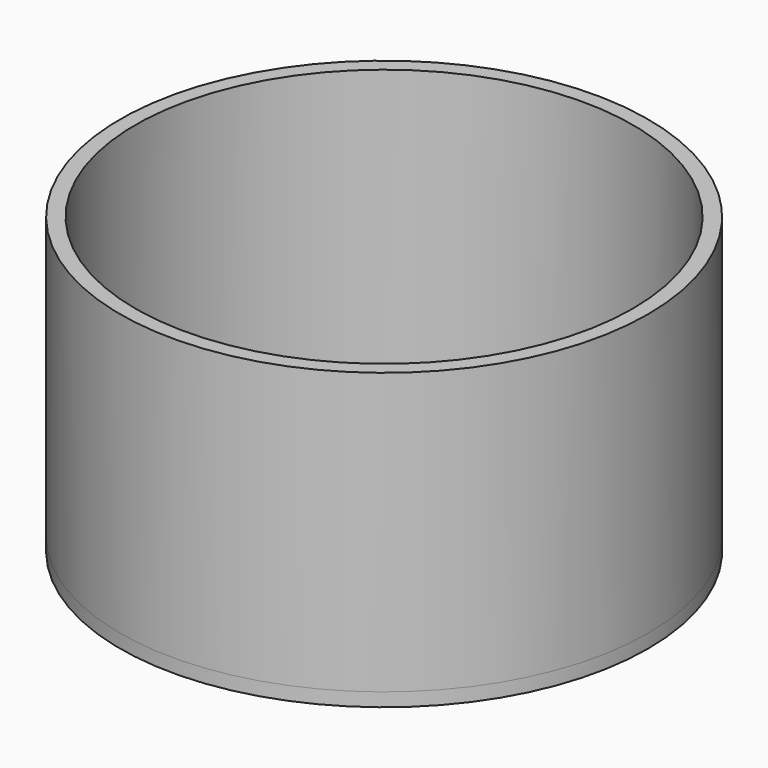
from build123d import *

# Parameters (mm, degrees)
F0_R     = 39
F1_DEPTH = 1.5
F2_R     = 39
F2_R_2   = 36.75
F3_DEPTH = 40
F4_DEPTH = 2


with BuildPart() as f1:
    # F0 (on Top) → F1 (new body)
    with BuildSketch(Plane.XY):
        Circle(F0_R)
    extrude(amount=F1_DEPTH)

    # F2 (on face) → F3 (join)
    with BuildSketch(Plane.XY.offset(1.5)):
        Circle(F2_R)
        Circle(F2_R_2, mode=Mode.SUBTRACT)
    extrude(amount=F3_DEPTH)

    # F4 (add): a face of the model
    f4_faces = [f1.faces().sort_by_distance(p)[0] for p in [
        (0, 0, 0),
    ]]
    extrude(f4_faces, amount=F4_DEPTH)


solid = f1.part
